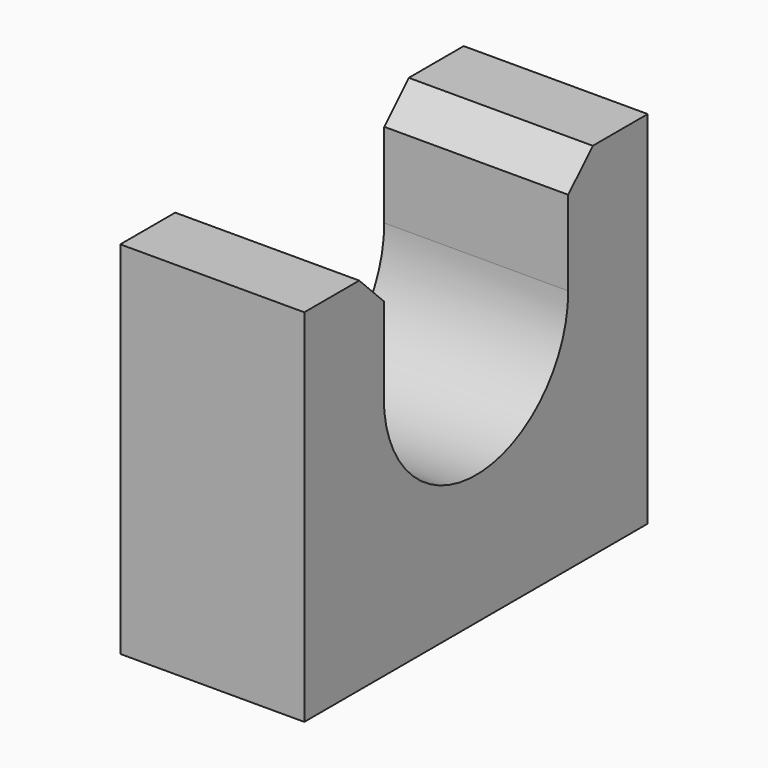
from build123d import *

# Parameters (mm, degrees)
F1_DEPTH = 38.1
F2_SIZE  = 6.35


with BuildPart() as f1:
    # F0 (on Right) → F1 (new body)
    with BuildSketch(Plane.YZ):
        with BuildLine():
            ThreePointArc((23.876, 0), (0, -23.876), (-23.876, 0))
            Line((-23.876, 0), (-23.876, 23.876))
            Line((-23.876, 23.876), (-44.45, 23.876))
            Line((-44.45, 23.876), (-44.45, -50.8))
            Line((-44.45, -50.8), (44.45, -50.8))
            Line((44.45, -50.8), (44.45, 23.876))
            Line((44.45, 23.876), (23.876, 23.876))
            Line((23.876, 23.876), (23.876, 0))
        make_face()
    extrude(amount=F1_DEPTH)

    # F2
    f2_edges = [f1.edges().sort_by_distance(p)[0] for p in [
        (19.05, -23.876, 23.876),
        (19.05, 23.876, 23.876),
    ]]
    chamfer(f2_edges, length=F2_SIZE)


solid = f1.part
